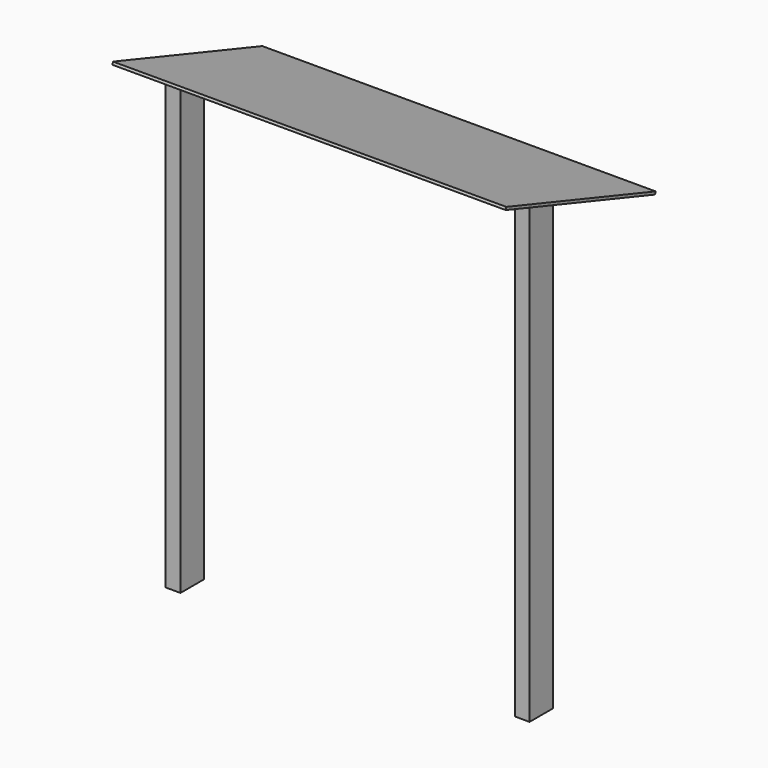
from build123d import *

# Parameters (mm, degrees)
F0_W     = 45
F0_H     = 90
F1_DEPTH = 1400
F3_DEPTH = 1110.001
F5_DEPTH = 45.001
F6_W     = 1200
F6_H     = 600
F7_DEPTH = 8


with BuildPart() as f1:
    # F0 (on Top) → F1 (new body)
    with BuildSketch(Plane.XY):
        with Locations((-532.5, 45)):
            Rectangle(F0_W, F0_H)
    extrude(amount=F1_DEPTH)


with BuildPart() as f1b:
    # F0 (on Top) → F1, piece 2 (new body)
    with BuildSketch(Plane.XY):
        with Locations((532.5, 45)):
            Rectangle(F0_W, F0_H)
    extrude(amount=F1_DEPTH)


with BuildPart() as f3_tool:
    # F2 (on face) → F3 (new body, through all)
    with BuildSketch(Plane(origin=(-555, 0, 0), x_dir=(0, -1, 0), z_dir=(-1, 0, 0))):
        Polygon((0, 1400), (-90, 1400), (-90, 1370), align=None)
    extrude(amount=-F3_DEPTH)


with BuildPart() as f1_1:
    add(f1.part)

    # F3: cut by f3_tool
    add(f3_tool.part, mode=Mode.SUBTRACT)

    # F4 (on face) → F5 (cut, through all)
    with BuildSketch(Plane(origin=(510, 0, 0), x_dir=(0, -1, 0), z_dir=(-1, 0, 0))):
        Polygon((0, 1400), (-90, 1400), (-90, 1370), align=None)
    extrude(amount=-F5_DEPTH, mode=Mode.SUBTRACT)



with BuildPart() as f1b_1:
    add(f1b.part)

    # F3: cut by f3_tool
    add(f3_tool.part, mode=Mode.SUBTRACT)


with BuildPart() as f1_2:
    add(f1_1.part)

    add(f1b_1.part)  # F7 merges F1b
    # F6 (on face) → F7 (join)
    with BuildSketch(Plane(origin=(0, 420, 1260), x_dir=(1, 0, 0), z_dir=(0, 0.316227766, 0.9486832981))):
        with Locations((0, -297.8505426185)):
            Rectangle(F6_W, F6_H)
    extrude(amount=F7_DEPTH)


solid = f1_2.part
